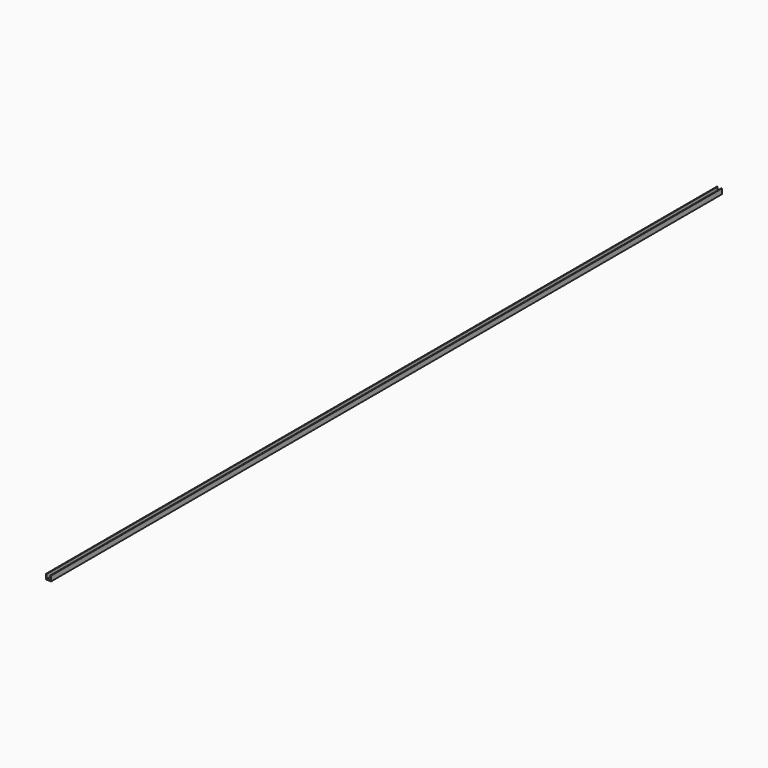
from build123d import *

# Parameters (mm, degrees)
F0_W     = 1.6
F0_H     = 11
F0_H_2   = 1.7
F0_W_2   = 9.4
F0_W_3   = 1.7
F1_DEPTH = 2093


with BuildPart() as f1:
    # F0 (on Front) → F1 (new body)
    with BuildSketch(Plane.XZ):
        with Locations((-34.7863528877, 13.0586644009)):
            Rectangle(F0_W, F0_H)
        with Locations((-34.7863528877, 6.7086644009)):
            Rectangle(F0_W, F0_H_2)
        with Locations((-29.2863528877, 6.7086644009)):
            Rectangle(F0_W_2, F0_H_2)
        with Locations((-23.7363528877, 6.7086644009)):
            Rectangle(F0_W_3, F0_H_2)
        with Locations((-23.7363528877, 13.0586644009)):
            Rectangle(F0_W_3, F0_H)
    extrude(amount=F1_DEPTH)


solid = f1.part
